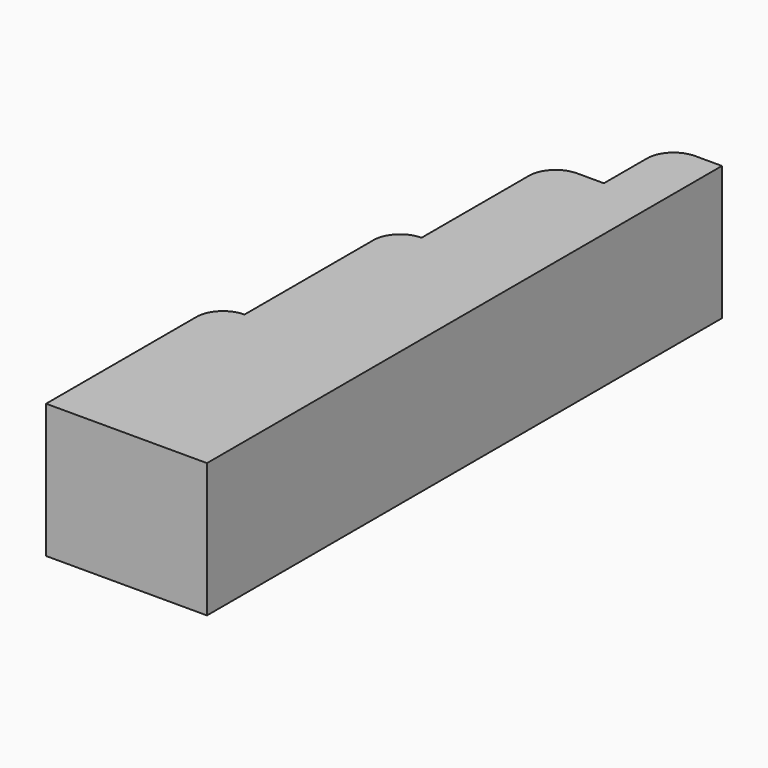
from build123d import *

# Parameters (mm, degrees)
F1_DEPTH = 25


with BuildPart() as f1:
    # F0 (on Top) → F1 (new body)
    with BuildSketch(Plane.XY):
        with BuildLine():
            Line((0, 35), (0, 0))
            Line((0, 0), (30, 0))
            Line((30, 0), (30, 120))
            Line((30, 120), (25, 120))
            ThreePointArc((25, 120), (21.464466, 118.535534), (20, 115))
            Line((20, 115), (20, 105))
            Line((20, 105), (15, 105))
            ThreePointArc((15, 105), (11.464466, 103.535534), (10, 100))
            Line((10, 100), (10, 75))
            ThreePointArc((10, 75), (6.464466, 73.535534), (5, 70))
            Line((5, 70), (5, 40))
            ThreePointArc((5, 40), (1.464466, 38.535534), (0, 35))
        make_face()
    extrude(amount=F1_DEPTH)


solid = f1.part
